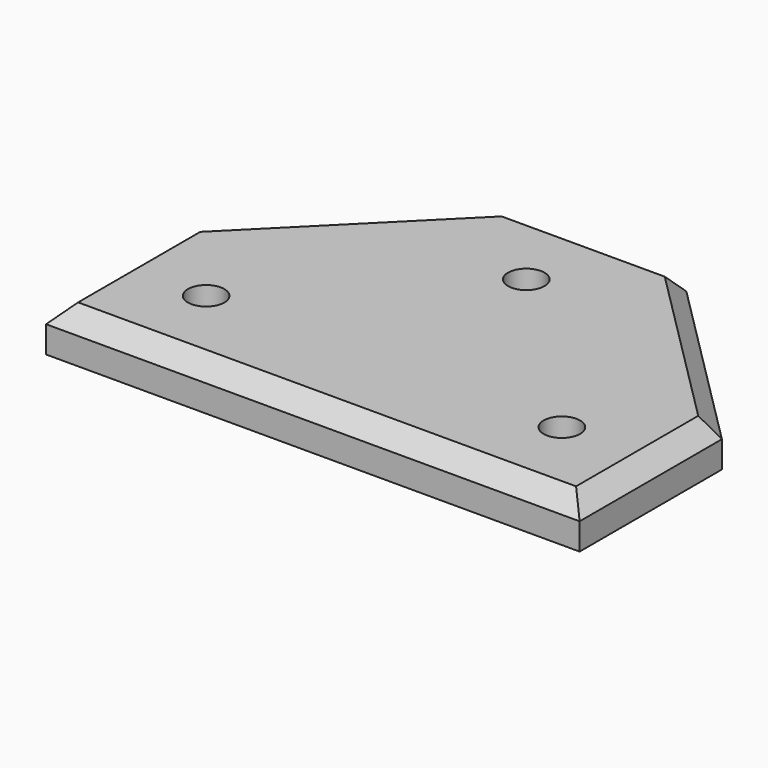
from build123d import *

# Parameters (mm, degrees)
SKETCH_R      = 2.05
EXTRUDE_DEPTH = 5
CHAMFER_SIZE  = 2


with BuildPart() as part:
    # Sketch → Extrude (new body)
    with BuildSketch(Plane.XY):
        Polygon((0, 0), (0, 20), (20, 40), (40, 40), (60, 20), (60, 0), align=None)
        with Locations((10, 10)):
            Circle(SKETCH_R, mode=Mode.SUBTRACT)
        with Locations((50, 10)):
            Circle(SKETCH_R, mode=Mode.SUBTRACT)
        with Locations((30, 30)):
            Circle(SKETCH_R, mode=Mode.SUBTRACT)
    extrude(amount=EXTRUDE_DEPTH)

    # Chamfer
    chamfer_edges = [part.edges().sort_by_distance(p)[0] for p in [
        (0, 10, 5),
        (10, 30, 5),
        (30, 40, 5),
        (50, 30, 5),
        (60, 10, 5),
        (30, 0, 5),
    ]]
    chamfer(chamfer_edges, length=CHAMFER_SIZE)


solid = part.part
